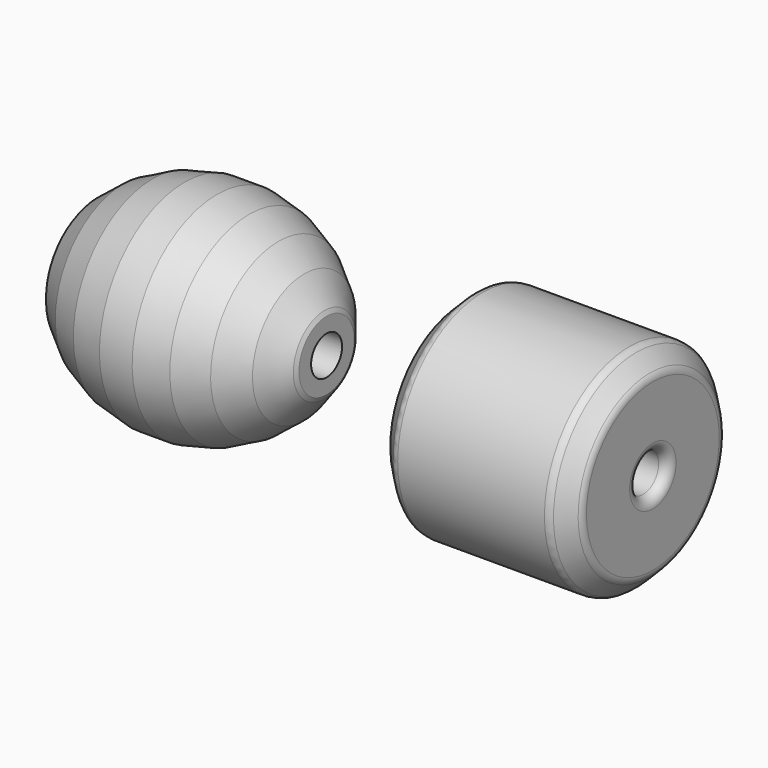
from build123d import *

# Parameters (mm, degrees)
F0_W    = 1
F0_H    = 5.9970587951
F4_SIZE = 2
F5_R    = 1
F6_R    = 1


with BuildPart() as f1:
    # F0 (on Front) → F1 (revolve)
    with BuildSketch(Plane.XZ):
        Polygon((-10.546695441, 2), (0, 2), (0, 3.576694909), (-0.2187713284, 4.0309782533), (-2.3262841976, 6.6737158024), (-4.9690217467, 8.7812286716), (-8.0144660798, 10.2478373655), (-11.3099059015, 11), (-12, 11), (-12, 5.0029412049), (-10.546695441, 5.0029412049), align=None)
        with Locations((-12.5, 8.0014706025)):
            Rectangle(F0_W, F0_H)
        Polygon((-24, 5.0029412049), (-13, 5.0029412049), (-13, 11), (-14.6900940985, 11), (-17.9855339202, 10.2478373655), (-21.0309782533, 8.7812286716), (-23.6737158024, 6.6737158024), (-24, 6.2645683599), align=None)
    revolve(axis=Axis((-2.5, 0, 0), (-1, 0, 0)))


with BuildPart() as f3:
    # F2 (on Front) → F3 (revolve)
    with BuildSketch(Plane.XZ):
        Polygon((27.7396352366, 2), (33.7396352366, 2), (33.7396352366, 11), (13.7396352366, 11), (13.7396352366, 5), (27.7396352366, 5), align=None)
    revolve(axis=Axis((31.2396352366, 0, 0), (-1, 0, 0)))

    # F4
    f4_edges = [f3.edges().sort_by_distance(p)[0] for p in [
        (33.739635, 0, -11),
        (13.739635, 0, -11),
        (23.739635, 0, 11),
    ]]
    chamfer(f4_edges, length=F4_SIZE)

    # F5
    f5_edges = [f3.edges().sort_by_distance(p)[0] for p in [
        (13.739635, 0, -5),
        (27.739635, 0, -5),
        (20.739635, 0, 5),
        (27.739635, 0, -2),
        (33.739635, 0, -2),
        (30.739635, 0, 2),
    ]]
    fillet(f5_edges, radius=F5_R)

    # F6
    f6_edges = [f3.edges().sort_by_distance(p)[0] for p in [
        (23.739635, 0, 11),
        (31.739635, 0, -11),
        (15.739635, 0, -11),
        (32.739635, 0, 10),
        (33.739635, 0, -9),
        (14.739635, 0, 10),
        (13.739635, 0, -9),
    ]]
    fillet(f6_edges, radius=F6_R)


solid = Compound([f1.part, f3.part])
